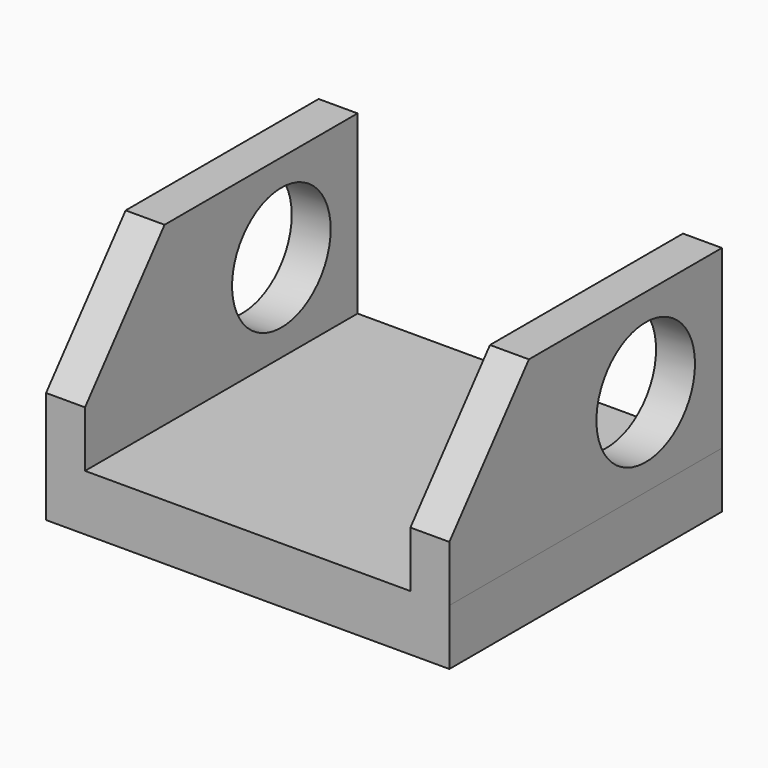
from build123d import *

# Parameters (mm, degrees)
F1_DEPTH = 12.7
F2_W     = 8.837395
F2_H     = 77.327222
F3_DEPTH = 40
F4_R     = 13.98028
F5_DEPTH = 91.531181


with BuildPart() as f1:
    # F0 (on Top) → F1 (new body)
    with BuildSketch(Plane.XY):
        Polygon((-45.765091, 38.663611), (-45.765091, 0), (-45.765091, -38.663611), (0, -38.663611), (45.765091, -38.663611), (45.765091, 0), (45.765091, 38.663611), (0, 38.663611), align=None)
    extrude(amount=F1_DEPTH)

    # F2 (on face) → F3 (join)
    with BuildSketch(Plane.XY.offset(12.7)):
        with Locations((41.346393, 0)):
            Rectangle(F2_W, F2_H)
        with Locations((-41.346393, 0)):
            Rectangle(F2_W, F2_H)
    extrude(amount=F3_DEPTH)

    # F4 (on face) → F5 (cut, through all)
    with BuildSketch(Plane.YZ.offset(45.765091)):
        Polygon((-38.663611, 52.7), (-38.663611, 25.395), (-16.096687, 52.7), align=None)
        with Locations((17.04355, 32.666806)):
            Circle(F4_R)
    extrude(amount=-F5_DEPTH, mode=Mode.SUBTRACT)


solid = f1.part
